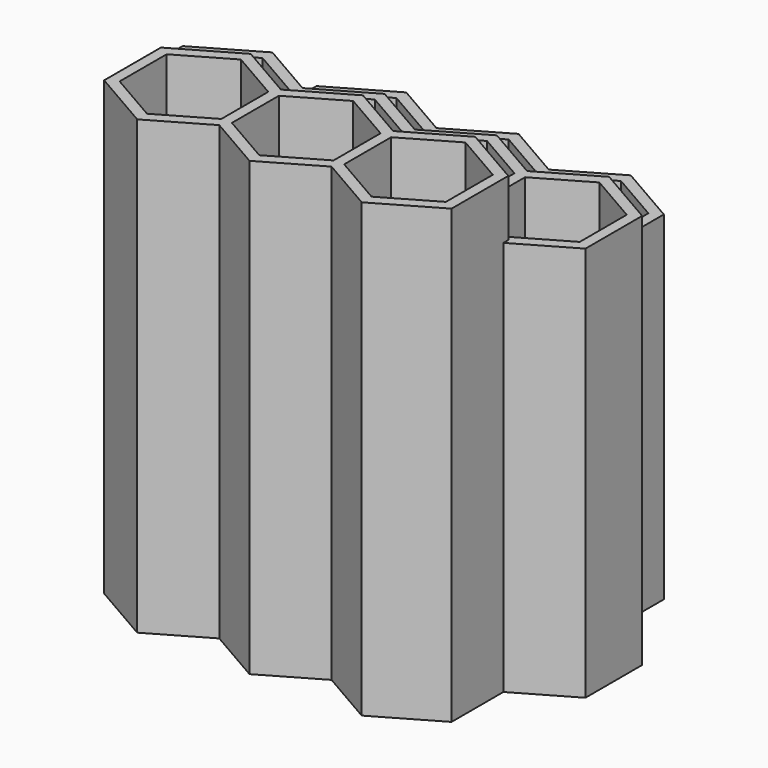
from build123d import *

# Parameters (mm, degrees)
F3_DEPTH = 101.6
F4_DEPTH = 88.9
F5_DEPTH = 76.2
F7_DEPTH = 3.175


with BuildPart() as f3:
    # F1 (on Top) → F3 (new body)
    with BuildSketch(Plane.XY):
        Polygon((0, -5.911706), (-12.620625, -13.198227), (-25.24125, -5.911706), (-39.0525, -13.885635), (-39.0525, -29.833493), (-25.24125, -37.807422), (-12.620625, -30.5209), (0, -37.807422), (12.620625, -30.5209), (25.24125, -37.807422), (39.0525, -29.833493), (39.0525, -13.885635), (25.24125, -5.911706), (12.620625, -13.198227), align=None)
        Polygon((0, -35.057791), (-11.43, -28.458677), (-11.43, -15.26045), (0, -8.661337), (11.43, -15.26045), (11.43, -28.458677), align=None, mode=Mode.SUBTRACT)
        Polygon((-25.24125, -35.057791), (-36.67125, -28.458677), (-36.67125, -15.26045), (-25.24125, -8.661337), (-13.81125, -15.26045), (-13.81125, -28.458677), align=None, mode=Mode.SUBTRACT)
        Polygon((13.81125, -28.458677), (13.81125, -15.26045), (25.24125, -8.661337), (36.67125, -15.26045), (36.67125, -28.458677), (25.24125, -35.057791), align=None, mode=Mode.SUBTRACT)
    extrude(amount=F3_DEPTH)

    # F0 (on Top) → F4 (join)
    with BuildSketch(Plane.XY):
        Polygon((-26.431875, -6.599114), (-24.050625, -6.599114), (-24.050625, 6.599114), (-12.620625, 13.198227), (-1.190625, 6.599114), (-1.190625, -6.599114), (1.190625, -6.599114), (1.190625, 6.599114), (12.620625, 13.198227), (24.050625, 6.599114), (24.050625, -6.599114), (26.431875, -6.599114), (26.431875, 6.599114), (37.861875, 13.198227), (49.291875, 6.599114), (49.291875, -6.599114), (37.861875, -13.198227), (39.0525, -15.26045), (51.673125, -7.973929), (51.673125, 7.973929), (37.861875, 15.947858), (25.24125, 8.661337), (12.620625, 15.947858), (0, 8.661337), (-12.620625, 15.947858), (-25.24125, 8.661337), (-37.861875, 15.947858), (-51.673125, 7.973929), (-51.673125, -7.973929), (-39.0525, -15.26045), (-37.861875, -13.198227), (-49.291875, -6.599114), (-49.291875, 6.599114), (-37.861875, 13.198227), (-26.431875, 6.599114), align=None)
    extrude(amount=F4_DEPTH)

    # F2 (on Top) → F5 (join)
    with BuildSketch(Plane.XY):
        Polygon((-13.81125, 15.26045), (-11.43, 15.26045), (-11.43, 28.458677), (0, 35.057791), (11.43, 28.458677), (11.43, 15.26045), (13.81125, 15.26045), (13.81125, 28.458677), (25.24125, 35.057791), (36.67125, 28.458677), (36.67125, 15.26045), (39.0525, 15.26045), (39.0525, 29.833493), (25.24125, 37.807422), (12.620625, 30.5209), (0, 37.807422), (-12.620625, 30.5209), (-25.24125, 37.807422), (-39.0525, 29.833493), (-39.0525, 15.26045), (-36.67125, 15.26045), (-36.67125, 28.458677), (-25.24125, 35.057791), (-13.81125, 28.458677), align=None)
    extrude(amount=F5_DEPTH)

    # F6 (on Top) → F7 (join)
    with BuildSketch(Plane.XY):
        Polygon((-49.291875, 6.599114), (-49.291875, -6.599114), (-37.861875, -13.198227), (-26.431875, -6.599114), (-26.431875, 6.599114), (-37.861875, 13.198227), align=None)
        Polygon((-37.861875, -3.666174), (-41.036875, -1.833087), (-41.036875, 1.833087), (-37.861875, 3.666174), (-34.686875, 1.833087), (-34.686875, -1.833087), align=None, mode=Mode.SUBTRACT)
        Polygon((-24.050625, 6.599114), (-24.050625, -6.599114), (-12.620625, -13.198227), (-1.190625, -6.599114), (-1.190625, 6.599114), (-12.620625, 13.198227), align=None)
        Polygon((-15.795625, -1.833087), (-15.795625, 1.833087), (-12.620625, 3.666174), (-9.445625, 1.833087), (-9.445625, -1.833087), (-12.620625, -3.666174), align=None, mode=Mode.SUBTRACT)
        Polygon((-13.81125, -28.458677), (-13.81125, -15.26045), (-25.24125, -8.661337), (-36.67125, -15.26045), (-36.67125, -28.458677), (-25.24125, -35.057791), align=None)
        Polygon((-28.41625, -23.692651), (-28.41625, -20.026477), (-25.24125, -18.19339), (-22.06625, -20.026477), (-22.06625, -23.692651), (-25.24125, -25.525738), align=None, mode=Mode.SUBTRACT)
        Polygon((-36.67125, 28.458677), (-36.67125, 15.26045), (-25.24125, 8.661337), (-13.81125, 15.26045), (-13.81125, 28.458677), (-25.24125, 35.057791), align=None)
        Polygon((-25.24125, 18.19339), (-28.41625, 20.026477), (-28.41625, 23.692651), (-25.24125, 25.525738), (-22.06625, 23.692651), (-22.06625, 20.026477), align=None, mode=Mode.SUBTRACT)
        Polygon((-11.43, 28.458677), (-11.43, 15.26045), (0, 8.661337), (11.43, 15.26045), (11.43, 28.458677), (0, 35.057791), align=None)
        Polygon((-3.175, 20.026477), (-3.175, 23.692651), (0, 25.525738), (3.175, 23.692651), (3.175, 20.026477), (0, 18.19339), align=None, mode=Mode.SUBTRACT)
        Polygon((13.81125, 28.458677), (13.81125, 15.26045), (25.24125, 8.661337), (36.67125, 15.26045), (36.67125, 28.458677), (25.24125, 35.057791), align=None)
        Polygon((25.24125, 25.525738), (28.41625, 23.692651), (28.41625, 20.026477), (25.24125, 18.19339), (22.06625, 20.026477), (22.06625, 23.692651), align=None, mode=Mode.SUBTRACT)
        Polygon((24.050625, -6.599114), (24.050625, 6.599114), (12.620625, 13.198227), (1.190625, 6.599114), (1.190625, -6.599114), (12.620625, -13.198227), align=None)
        Polygon((12.620625, -3.666174), (9.445625, -1.833087), (9.445625, 1.833087), (12.620625, 3.666174), (15.795625, 1.833087), (15.795625, -1.833087), align=None, mode=Mode.SUBTRACT)
        Polygon((26.431875, 6.599114), (26.431875, -6.599114), (37.861875, -13.198227), (49.291875, -6.599114), (49.291875, 6.599114), (37.861875, 13.198227), align=None)
        Polygon((34.686875, 1.833087), (37.861875, 3.666174), (41.036875, 1.833087), (41.036875, -1.833087), (37.861875, -3.666174), (34.686875, -1.833087), align=None, mode=Mode.SUBTRACT)
        Polygon((36.67125, -28.458677), (36.67125, -15.26045), (25.24125, -8.661337), (13.81125, -15.26045), (13.81125, -28.458677), (25.24125, -35.057791), align=None)
        Polygon((22.06625, -20.026477), (25.24125, -18.19339), (28.41625, -20.026477), (28.41625, -23.692651), (25.24125, -25.525738), (22.06625, -23.692651), align=None, mode=Mode.SUBTRACT)
        Polygon((-11.43, -15.26045), (-11.43, -28.458677), (0, -35.057791), (11.43, -28.458677), (11.43, -15.26045), (0, -8.661337), align=None)
        Polygon((-3.175, -23.692651), (-3.175, -20.026477), (0, -18.19339), (3.175, -20.026477), (3.175, -23.692651), (0, -25.525738), align=None, mode=Mode.SUBTRACT)
    extrude(amount=F7_DEPTH)


solid = f3.part
